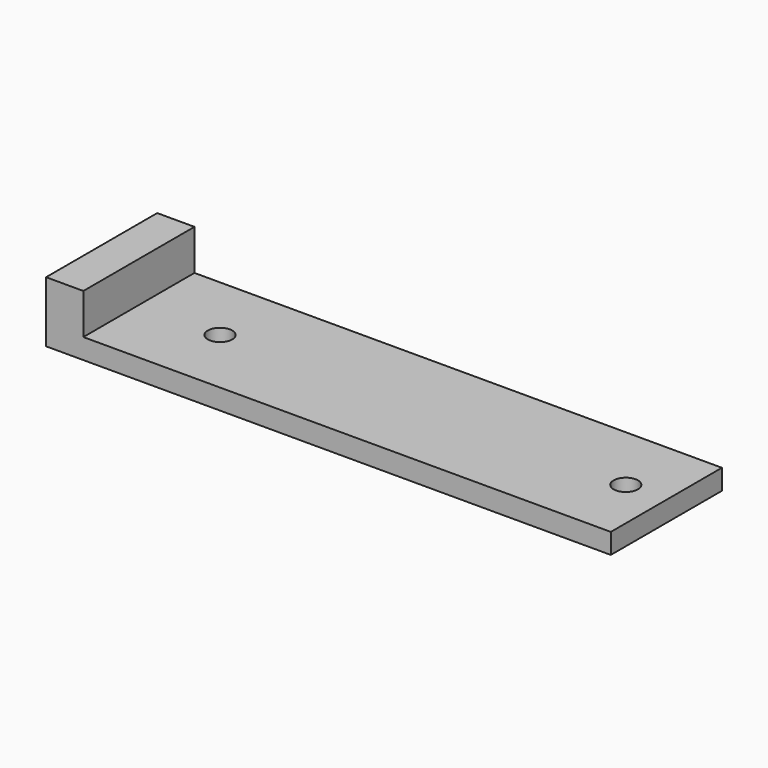
from build123d import *

# Parameters (mm, degrees)
F0_W     = 130
F0_H     = 34.23126
F0_R     = 3
F1_DEPTH = 5
F0_W_2   = 9.183506
F2_DEPTH = 15


with BuildPart() as f1:
    # F0 (on Top) → F1 (new body)
    with BuildSketch(Plane.XY):
        Rectangle(F0_W, F0_H)
        with Locations((-45, 0)):
            Circle(F0_R, mode=Mode.SUBTRACT)
        with Locations((55, 0)):
            Circle(F0_R, mode=Mode.SUBTRACT)
    extrude(amount=F1_DEPTH)

    # F0 (on Top) → F2 (join)
    with BuildSketch(Plane.XY):
        with Locations((-69.591753, 0)):
            Rectangle(F0_W_2, F0_H)
    extrude(amount=F2_DEPTH)


solid = f1.part
